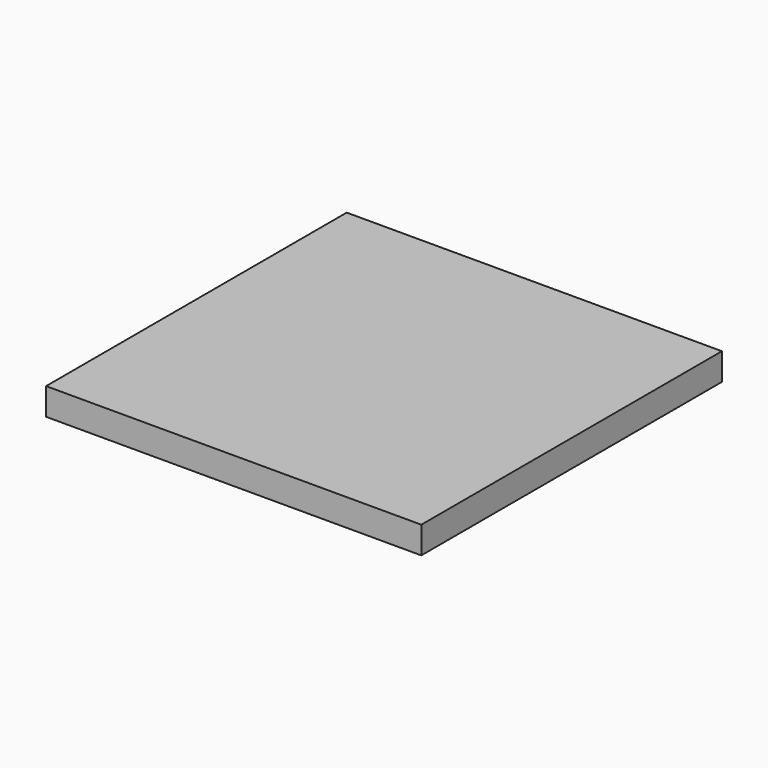
from build123d import *

# Parameters (mm, degrees)
F0_W     = 76.029807
F0_H     = 76.111034
F1_DEPTH = 1.778
F2_W     = 17.624621
F2_H     = 17.648534
F3_DEPTH = 1.27


with BuildPart() as f1:
    # F0 (on Top) → F1 (new body)
    with BuildSketch(Plane.XY):
        with Locations((-38.014903, 38.055517)):
            Rectangle(F0_W, F0_H)
    extrude(amount=F1_DEPTH)


with BuildPart() as f3:
    # F2 (on face) → F3 (new body)
    with BuildSketch(Plane.XY.offset(1.778)):
        with Locations((-57.89136, -19.248753)):
            Rectangle(F2_W, F2_H)
    extrude(amount=F3_DEPTH)


solid = f3.part
